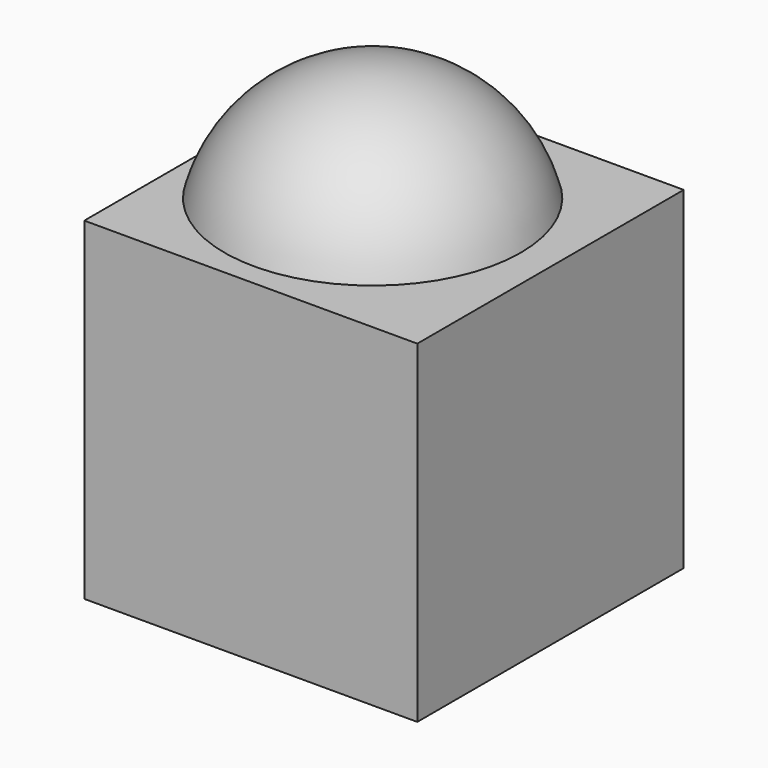
from build123d import *

# Parameters (mm, degrees)
F0_W     = 40
F0_H     = 40
F1_DEPTH = 20


with BuildPart() as f1:
    # F0 (on Top) → F1 (new body, symmetric)
    with BuildSketch(Plane.XY):
        with Locations((1.368772, 0)):
            Rectangle(F0_W, F0_H)
    extrude(amount=F1_DEPTH, both=True)


with BuildPart() as f4:
    # F3 (on Front) → F4 (revolve)
    with BuildSketch(Plane.XZ):
        with BuildLine():
            Line((0, 20.31834), (17.792672, 20.31834))
            ThreePointArc((17.792672, 20.31834), (11.236781, 30.216), (0, 34.047207))
            Line((0, 34.047207), (0, 20.31834))
        make_face()
    revolve(axis=Axis((0, 0, 8.158287), (0, 0, 1)))


solid = Compound([f1.part, f4.part])
